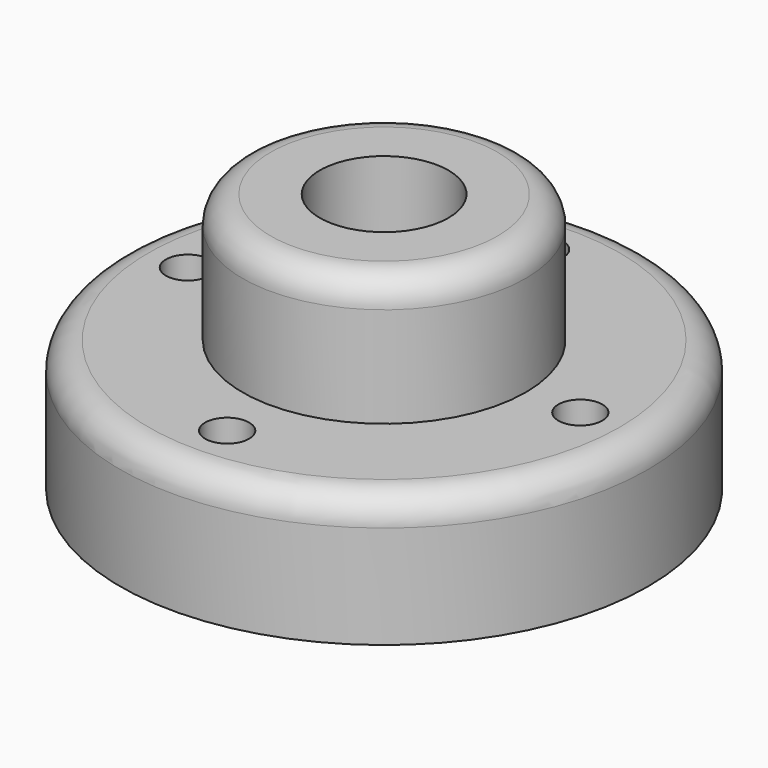
from build123d import *

# Parameters (mm, degrees)
F0_R     = 30
F0_R_2   = 2.5
F0_R_3   = 16.1
F1_DEPTH = 14.9
F2_R     = 3.2
F0_R_4   = 7.315
F3_DEPTH = 29.5
F4_R     = 3.2


with BuildPart() as f1:
    # F0 (on Top) → F1 (new body)
    with BuildSketch(Plane.XY):
        Circle(F0_R)
        with Locations((0, -22.3)):
            Circle(F0_R_2, mode=Mode.SUBTRACT)
        with Locations((-22.3, 0)):
            Circle(F0_R_2, mode=Mode.SUBTRACT)
        Circle(F0_R_3, mode=Mode.SUBTRACT)
        with Locations((22.3, 0)):
            Circle(F0_R_2, mode=Mode.SUBTRACT)
        with Locations((0, 22.3)):
            Circle(F0_R_2, mode=Mode.SUBTRACT)
    extrude(amount=F1_DEPTH)

    # F2
    f2_edges = [f1.edges().sort_by_distance(p)[0] for p in [
        (-30, 0, 14.9),
    ]]
    fillet(f2_edges, radius=F2_R)

    # F0 (on Top) → F3 (join)
    with BuildSketch(Plane.XY):
        Circle(F0_R_3)
        Circle(F0_R_4, mode=Mode.SUBTRACT)
    extrude(amount=F3_DEPTH)

    # F4
    f4_edges = [f1.edges().sort_by_distance(p)[0] for p in [
        (-16.1, 0, 29.5),
    ]]
    fillet(f4_edges, radius=F4_R)


solid = f1.part
